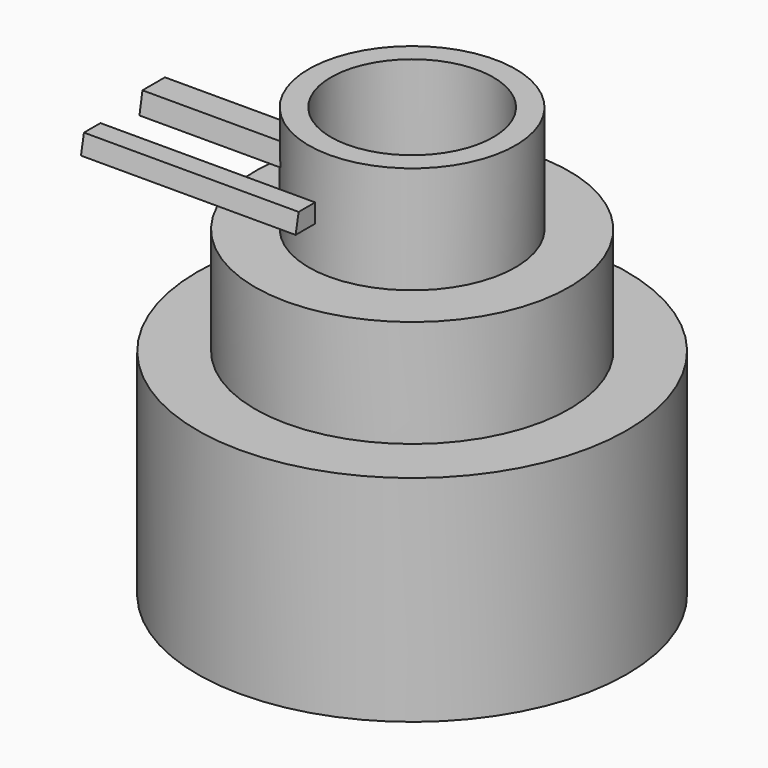
from build123d import *

# Parameters (mm, degrees)
F0_W     = 2.632928
F0_H     = 12.7
F3_DEPTH = 25.4


with BuildPart() as f1:
    # F0 (on Right) → F1 (revolve)
    with BuildSketch(Plane.YZ):
        with Locations((14.481099, 44.450002)):
            Rectangle(F0_W, F0_H)
        Polygon((6.814635, 38.100002), (6.814635, 25.4), (18.972563, 25.4), (18.972563, 38.100002), (15.797563, 38.100002), (13.164635, 38.100002), align=None)
        Polygon((0, 25.4), (0, 0), (25.4, 0), (25.4, 25.4), (18.972563, 25.4), (6.814635, 25.4), align=None)
    revolve(axis=Axis((0, 25.4, 12.7), (0, 0, 1)))

    # F2 (on Right) → F3 (join)
    with BuildSketch(Plane.YZ):
        Polygon((11.054257, 46.722252), (8.614117, 46.722252), (8.170456, 44.503942), (11.054257, 44.503942), align=None)
        Polygon((20.592986, 47.609575), (17.265523, 47.609575), (16.821861, 45.169435), (20.592986, 45.169435), align=None)
    extrude(amount=-F3_DEPTH)


solid = f1.part
